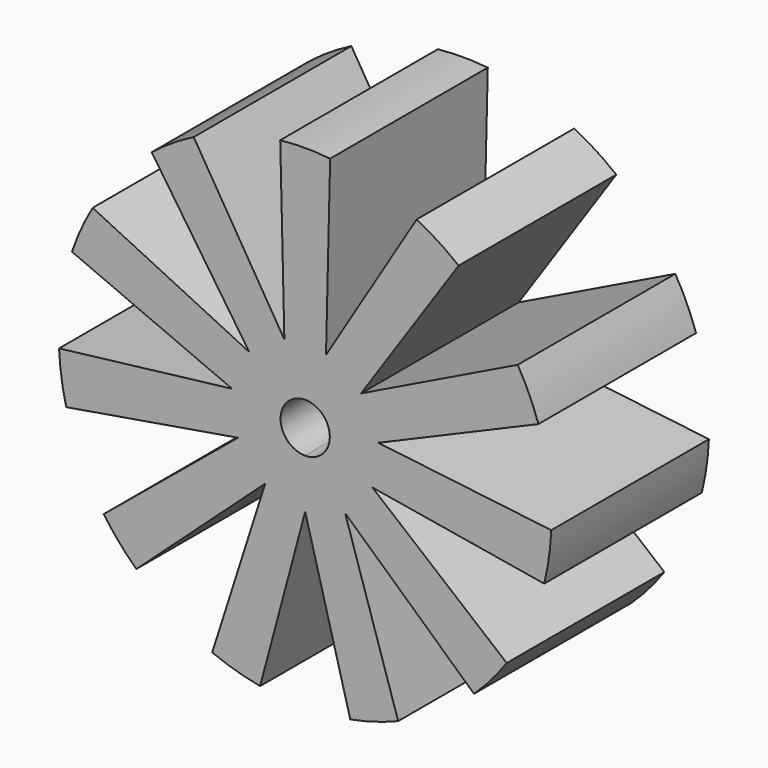
from build123d import *

# Parameters (mm, degrees)
F1_DEPTH = 25.4


with BuildPart() as f1:
    # F0 (on Front) → F1 (new body)
    with BuildSketch(Plane.XZ):
        with BuildLine():
            ThreePointArc((-9.428049, 1.355549), (-8.664245, 3.956828), (-7.198515, 6.237548))
            Line((-7.198515, 6.237548), (-27.395362, 16.048571))
            ThreePointArc((-27.395362, 16.048571), (-28.880816, 13.189427), (-30.068848, 10.194454))
            Line((-30.068848, 10.194454), (-9.428049, 1.355549))
        make_face()
        with BuildLine():
            ThreePointArc((-7.198515, 6.237548), (-5.149604, 8.01294), (-2.683503, 9.139171))
            Line((-2.683503, 9.139171), (-14.369933, 28.311968))
            ThreePointArc((-14.369933, 28.311968), (-17.165346, 26.7098), (-19.783986, 24.832567))
            Line((-19.783986, 24.832567), (-7.198515, 6.237548))
        make_face()
        with BuildLine():
            ThreePointArc((9.525, 0), (9.500731, 0.679506), (9.428049, 1.355549))
            ThreePointArc((9.428049, 1.355549), (8.664245, 3.956828), (7.198515, 6.237548))
            ThreePointArc((7.198515, 6.237548), (5.149604, 8.01294), (2.683503, 9.139171))
            ThreePointArc((2.683503, 9.139171), (0, 9.525), (-2.683503, 9.139171))
            ThreePointArc((-2.683503, 9.139171), (-5.149604, 8.01294), (-7.198515, 6.237548))
            ThreePointArc((-7.198515, 6.237548), (-8.664245, 3.956828), (-9.428049, 1.355549))
            ThreePointArc((-9.428049, 1.355549), (-9.428049, -1.355549), (-8.664245, -3.956828))
            ThreePointArc((-8.664245, -3.956828), (-7.198515, -6.237548), (-5.149604, -8.01294))
            ThreePointArc((-5.149604, -8.01294), (-2.683503, -9.139171), (0, -9.525))
            ThreePointArc((0, -9.525), (2.683503, -9.139171), (5.149604, -8.01294))
            ThreePointArc((5.149604, -8.01294), (7.198515, -6.237548), (8.664245, -3.956828))
            ThreePointArc((8.664245, -3.956828), (9.307324, -2.024684), (9.525, 0))
        make_face()
        with BuildLine():
            ThreePointArc((3.175, 0), (2.245064, -2.245064), (0, -3.175))
            ThreePointArc((0, -3.175), (-2.245064, 2.245064), (3.175, 0))
        make_face(mode=Mode.SUBTRACT)
        with BuildLine():
            ThreePointArc((-2.683503, 9.139171), (0, 9.525), (2.683503, 9.139171))
            Line((2.683503, 9.139171), (3.217849, 31.586515))
            ThreePointArc((3.217849, 31.586515), (0, 31.75), (-3.217849, 31.586515))
            Line((-3.217849, 31.586515), (-2.683503, 9.139171))
        make_face()
        with BuildLine():
            Line((7.198515, 6.237548), (19.783986, 24.832567))
            ThreePointArc((19.783986, 24.832567), (17.165346, 26.7098), (14.369933, 28.311968))
            Line((14.369933, 28.311968), (2.683503, 9.139171))
            ThreePointArc((2.683503, 9.139171), (5.149604, 8.01294), (7.198515, 6.237548))
        make_face()
        with BuildLine():
            Line((9.428049, 1.355549), (30.068848, 10.194454))
            ThreePointArc((30.068848, 10.194454), (28.880816, 13.189427), (27.395362, 16.048571))
            Line((27.395362, 16.048571), (7.198515, 6.237548))
            ThreePointArc((7.198515, 6.237548), (8.664245, 3.956828), (9.428049, 1.355549))
        make_face()
        with BuildLine():
            ThreePointArc((30.807062, -7.680326), (31.426831, -4.518496), (31.722958, -1.310134))
            Line((31.722958, -1.310134), (9.428049, 1.355549))
            ThreePointArc((9.428049, 1.355549), (9.500731, 0.679506), (9.525, 0))
            ThreePointArc((9.525, 0), (9.307324, -2.024684), (8.664245, -3.956828))
            Line((8.664245, -3.956828), (30.807062, -7.680326))
        make_face()
        with BuildLine():
            ThreePointArc((21.764252, -23.116657), (23.995049, -20.791828), (25.978738, -18.252881))
            Line((25.978738, -18.252881), (8.664245, -3.956828))
            ThreePointArc((8.664245, -3.956828), (7.198515, -6.237548), (5.149604, -8.01294))
            Line((5.149604, -8.01294), (21.764252, -23.116657))
        make_face()
        with BuildLine():
            Line((11.986453, -29.400467), (5.149604, -8.01294))
            ThreePointArc((5.149604, -8.01294), (2.683503, -9.139171), (0, -9.525))
            Line((0, -9.525), (5.811446, -31.213612))
            ThreePointArc((5.811446, -31.213612), (8.945009, -30.463902), (11.986453, -29.400467))
        make_face()
        with BuildLine():
            Line((-5.811446, -31.213612), (0, -9.525))
            ThreePointArc((0, -9.525), (-2.683503, -9.139171), (-5.149604, -8.01294))
            Line((-5.149604, -8.01294), (-11.986453, -29.400467))
            ThreePointArc((-11.986453, -29.400467), (-8.945009, -30.463902), (-5.811446, -31.213612))
        make_face()
        with BuildLine():
            Line((-21.764252, -23.116657), (-5.149604, -8.01294))
            ThreePointArc((-5.149604, -8.01294), (-7.198515, -6.237548), (-8.664245, -3.956828))
            Line((-8.664245, -3.956828), (-25.978738, -18.252881))
            ThreePointArc((-25.978738, -18.252881), (-23.995049, -20.791828), (-21.764252, -23.116657))
        make_face()
        with BuildLine():
            ThreePointArc((-8.664245, -3.956828), (-9.428049, -1.355549), (-9.428049, 1.355549))
            Line((-9.428049, 1.355549), (-31.722958, -1.310134))
            ThreePointArc((-31.722958, -1.310134), (-31.426831, -4.518496), (-30.807062, -7.680326))
            Line((-30.807062, -7.680326), (-8.664245, -3.956828))
        make_face()
    extrude(amount=F1_DEPTH)


solid = f1.part
